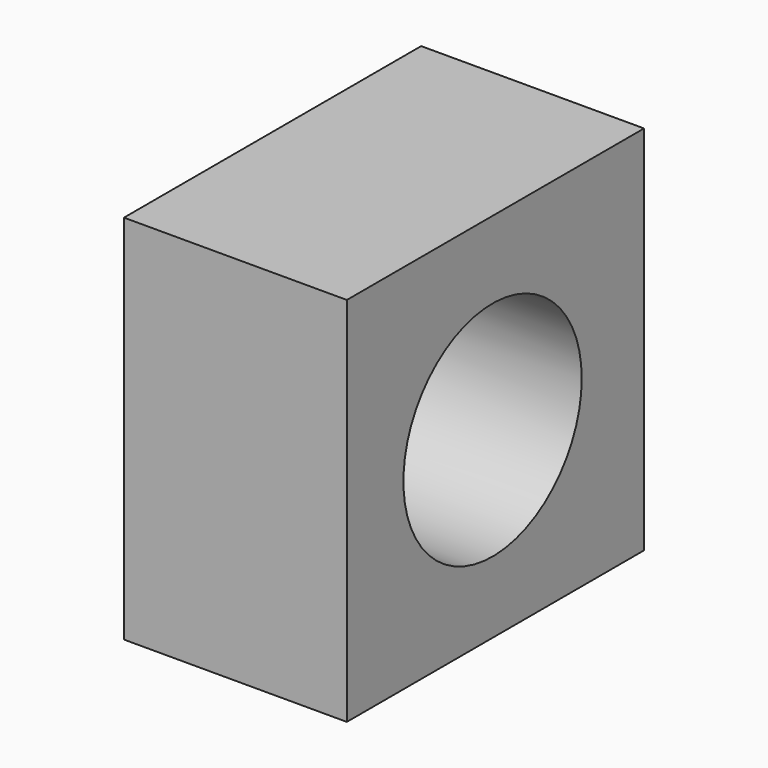
from build123d import *

# Parameters (mm, degrees)
CIRCLE004_R      = 1.5
EXTRUDE014_DEPTH = 5
RECTANGLE007_W   = 5
RECTANGLE007_H   = 5
EXTRUDE013_DEPTH = 3


with BuildPart() as extrude014:
    # Circle004 → Extrude014 (new body)
    with BuildSketch(Plane(origin=(3, -16.618832, 42.892174), x_dir=(0, 1, 0), z_dir=(1, 0, 0))):
        Circle(CIRCLE004_R)
    extrude(amount=EXTRUDE014_DEPTH)


with BuildPart() as extrude014_1:
    # Extrude014 placement: moved
    add(extrude014.part.moved(Location((-4, 0, 0))))


with BuildPart() as obj1:
    # Rectangle007 → Extrude013 (new body)
    with BuildSketch(Plane(origin=(0, -19.070377, 40.429726), x_dir=(0, 1, 0), z_dir=(1, 0, 0))):
        with Locations((2.5, 2.5)):
            Rectangle(RECTANGLE007_W, RECTANGLE007_H)
    extrude(amount=EXTRUDE013_DEPTH)

    # Cut001: cut Extrude014
    add(extrude014_1.part, mode=Mode.SUBTRACT)


with BuildPart() as obj1_1:
    # Cut001 placement: moved
    add(obj1.part.moved(Location((7.59052, 14.07, -31.7158))))


solid = obj1_1.part
